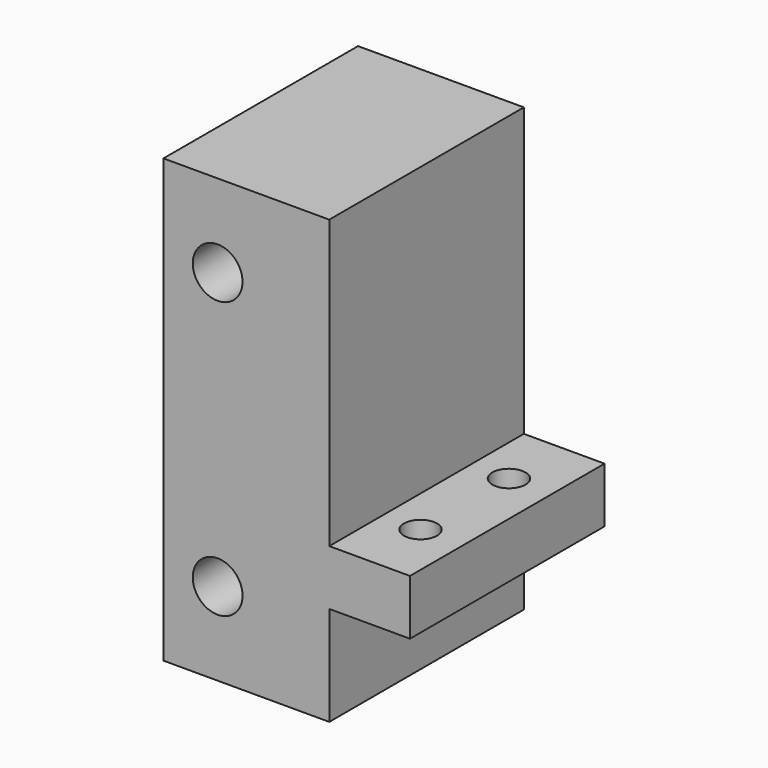
from build123d import *

# Parameters (mm, degrees)
PAD158_DEPTH            = 11
SKETCH235_R             = 2.25
POCKET059_DEPTH         = 25
SKETCH236_R             = 1.5
POCKET060_DEPTH         = 5
BODY127_PLACEMENT_ANGLE = 180
BODY134_PLACEMENT_ANGLE = 180


with BuildPart() as part:
    # Sketch234 → Pad158 (new body, symmetric)
    with BuildSketch(Plane.XZ):
        Polygon((-1.5, 40), (-1.5, 0), (13.5, 0), (13.5, 9), (20.8, 9), (20.8, 14), (13.5, 14), (13.5, 40), align=None)
    extrude(amount=PAD158_DEPTH, both=True)

    # Sketch235 (on Face10 of Pad158) → Pocket059 (cut)
    with BuildSketch(Plane.XZ.offset(11)):
        with Locations((3.4, 32.5)):
            Circle(SKETCH235_R)
        with Locations((3.4, 7.5)):
            Circle(SKETCH235_R)
    extrude(amount=-POCKET059_DEPTH, mode=Mode.SUBTRACT)

    # Sketch236 (on Face9 of Pocket059) → Pocket060 (cut)
    with BuildSketch(Plane(origin=(0, 0, 9), x_dir=(1, 0, 0), z_dir=(0, 0, -1))):
        with Locations((16.95, 5)):
            Circle(SKETCH236_R)
        with Locations((16.95, -5)):
            Circle(SKETCH236_R)
    extrude(amount=-POCKET060_DEPTH, mode=Mode.SUBTRACT)


with BuildPart() as part_1:
    # Body127 placement: moved
    add(part.part.moved(Location((-17, 0, 81))).rotate(Axis((-17, 0, 81), (0, 0, 1)), BODY127_PLACEMENT_ANGLE))


with BuildPart() as part_2:
    # Body134 placement: moved
    add(part_1.part.rotate(Axis((0, 0, 0), (0, 0, 1)), BODY134_PLACEMENT_ANGLE))


solid = part_2.part
